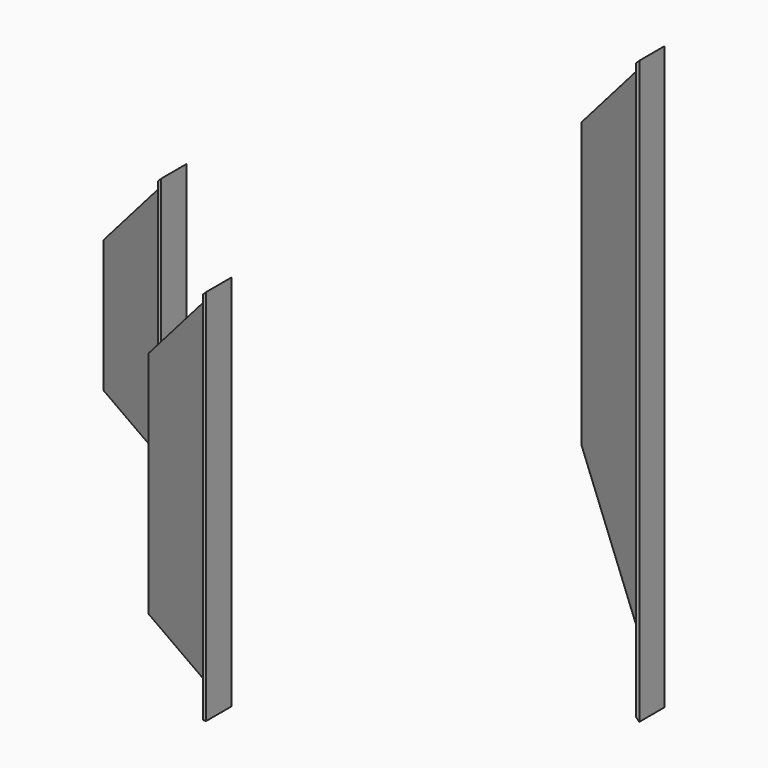
from build123d import *

# Parameters (mm, degrees)
F1_DEPTH  = 222
F3_DEPTH  = 116.3962809568
F5_DEPTH  = 298.4629867977
F7_DEPTH  = 332.2089640623
F9_DEPTH  = 460
F11_DEPTH = 282.6562179452
F13_DEPTH = 282.6562179452


with BuildPart() as f1:
    # F0 (on Top) → F1 (new body)
    with BuildSketch(Plane.XY):
        Polygon((-174.045728147, 143.2596931669), (-174.045728147, 168.2596931669), (-176.545728147, 168.2596931669), (-176.545728147, 141.8163174939), (-61.545728147, 75.4210365371), (-61.545728147, 51.8644122101), (-59.045728147, 51.8644122101), (-59.045728147, 76.8644122101), align=None)
    extrude(amount=F1_DEPTH)

    # F2 (on face) → F3 (cut, through all)
    with BuildSketch(Plane.XZ.offset(-51.8644122101)):
        Polygon((-61.545728147, 222), (-176.545728147, 222), (-176.545728147, 104.5), (-61.545728147, 219.5), align=None)
        Polygon((-59.045728147, 222), (-61.545728147, 222), (-61.545728147, 219.5), align=None)
    extrude(amount=-F3_DEPTH, mode=Mode.SUBTRACT)


with BuildPart() as f5:
    # F4 (on Top) → F5 (new body)
    with BuildSketch(Plane.XY):
        Polygon((34.0739101171, -72.5529899385), (34.0739101171, -47.5529899385), (31.5739101171, -47.5529899385), (31.5739101171, -73.9963656115), (146.5739101171, -140.3916465683), (146.5739101171, -163.9482708954), (149.0739101171, -163.9482708954), (149.0739101171, -138.9482708954), align=None)
    extrude(amount=F5_DEPTH)

    # F6 (on face) → F7 (cut, through all)
    with BuildSketch(Plane.XZ.offset(163.9482708954)):
        Polygon((146.5739101172, 295.9629867977), (149.0739101172, 298.4629867977), (146.5739101172, 298.4629867977), align=None)
        Polygon((31.5739101171, 180.9629867977), (146.5739101172, 295.9629867977), (146.5739101172, 298.4629867977), (31.5739101171, 298.4629867977), align=None)
    extrude(amount=-F7_DEPTH, mode=Mode.SUBTRACT)


with BuildPart() as f9:
    # F8 (on Top) → F9 (new body)
    with BuildSketch(Plane.XY):
        Polygon((243.4885656552, 93.7069470498), (243.4885656552, 118.7069470498), (240.9885656552, 118.7069470498), (240.9885656552, 92.2635713768), (355.9885656552, 25.86829042), (355.9885656552, 2.311666093), (358.4885656552, 2.311666093), (358.4885656552, 27.311666093), align=None)
    extrude(amount=F9_DEPTH)

    # F10 (on face) → F11 (cut, through all)
    with BuildSketch(Plane(origin=(0, 118.7069470498, 0), x_dir=(-1, 0, 0), z_dir=(0, 1, 0))):
        Polygon((-243.4885656552, 345), (-243.4885656552, 460), (-358.4885656552, 460), align=None)
        Polygon((-240.9885656552, 460), (-243.4885656552, 460), (-243.4885656552, 345), (-240.9885656552, 342.5), align=None)
    extrude(amount=-F11_DEPTH, mode=Mode.SUBTRACT)

    # F12 (on face) → F13 (cut, through all)
    with BuildSketch(Plane(origin=(0, 118.7069470498, 0), x_dir=(-1, 0, 0), z_dir=(0, 1, 0))):
        Polygon((-358.4885656552, 0), (-243.4885656552, 0), (-243.4885656552, 115), align=None)
        Polygon((-243.4885656552, 115), (-243.4885656552, 0), (-240.9885656552, 0), (-240.9885656552, 117.5), align=None)
    extrude(amount=-F13_DEPTH, mode=Mode.SUBTRACT)


solid = Compound([f1.part, f5.part, f9.part])
